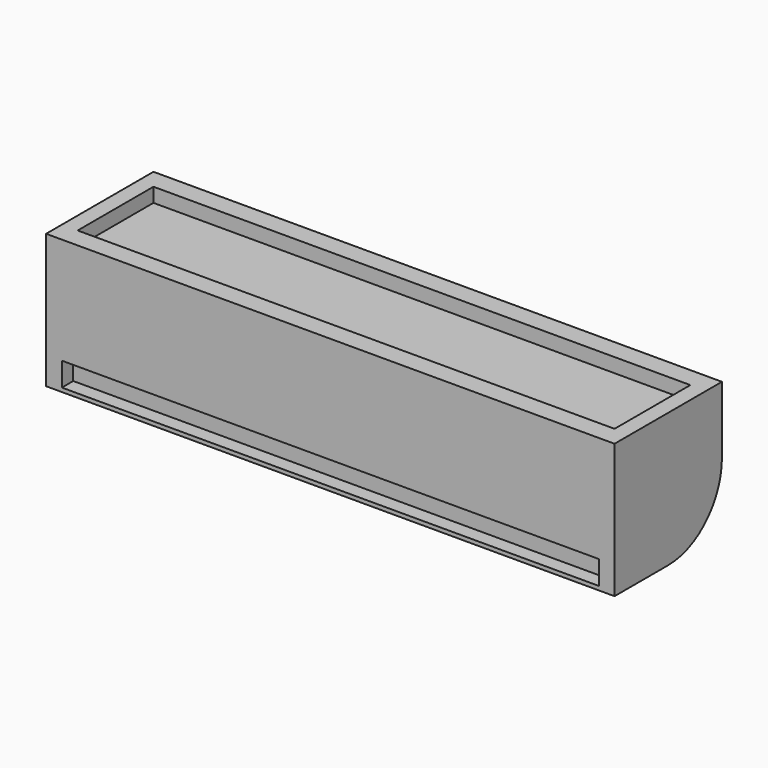
from build123d import *

# Parameters (mm, degrees)
F1_DEPTH = 457.2
F2_W     = 863.6
F2_H     = 38.1
F3_DEPTH = 25.4
F4_W     = 863.6
F4_H     = 152.4
F5_DEPTH = 25.4
F6_DEPTH = 2.54
F7_DEPTH = 2.54


with BuildPart() as f1:
    # F0 (on Right) → F1 (new body, symmetric)
    with BuildSketch(Plane.YZ):
        with BuildLine():
            Line((-215.9, 0), (-107.95, 0))
            ThreePointArc((-107.95, 0), (-31.6178229709, 31.6178229709), (0, 107.95))
            Line((0, 107.95), (0, 215.9))
            Line((0, 215.9), (-215.9, 215.9))
            Line((-215.9, 215.9), (-215.9, 0))
        make_face()
    extrude(amount=F1_DEPTH, both=True)

    # F2 (on face) → F3 (cut)
    with BuildSketch(Plane.XZ.offset(215.9)):
        with Locations((0, 25.4)):
            Rectangle(F2_W, F2_H)
    extrude(amount=-F3_DEPTH, mode=Mode.SUBTRACT)

    # F4 (on face) → F5 (cut)
    with BuildSketch(Plane.XY.offset(215.9)):
        with Locations((0, -107.95)):
            Rectangle(F4_W, F4_H)
    extrude(amount=-F5_DEPTH, mode=Mode.SUBTRACT)


with BuildPart() as f6:
    # F6 (new): a face of the model
    f6_faces = [f1.part.faces().sort_by_distance(p)[0] for p in [
        (0, -107.95, 190.5),
    ]]
    extrude(f6_faces, amount=F6_DEPTH)


with BuildPart() as f7:
    # F7 (new): a face of the model
    f7_faces = [f1.part.faces().sort_by_distance(p)[0] for p in [
        (0, -190.5, 25.4),
    ]]
    extrude(f7_faces, amount=F7_DEPTH)


solid = Compound([f1.part, f6.part, f7.part])
